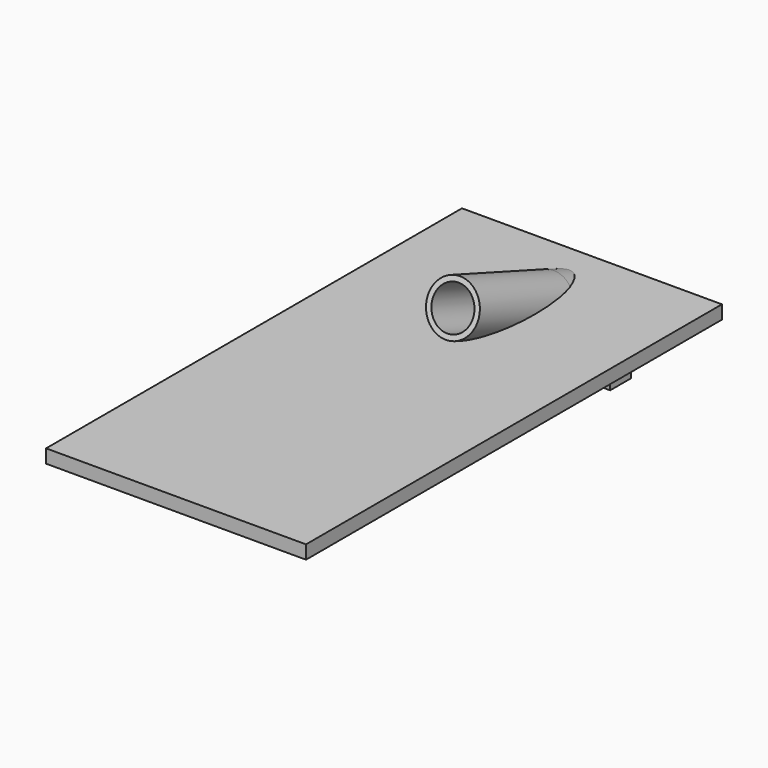
from build123d import *

# Parameters (mm, degrees)
TUBE_R                   = 5
TUBE_R_2                 = 4
TUBE_DEPTH               = 24
TUBE_PLACEMENT_ANGLE     = 70
BOX002_W                 = 13
BOX002_H                 = 4
BOX002_DEPTH             = 16
BOX001_W                 = 15
BOX001_H                 = 5
BOX001_DEPTH             = 18
CYLINDER_R               = 4
CYLINDER_DEPTH           = 35
CYLINDER_PLACEMENT_ANGLE = 70
BOX_W                    = 50
BOX_H                    = 100
BOX_DEPTH                = 2.6
EXTRUDE_DEPTH            = 10
EXTRUDE_PLACEMENT_ANGLE  = 70


with BuildPart() as tube:
    # Tube → Tube (new body)
    with BuildSketch(Plane.XY):
        Circle(TUBE_R)
        Circle(TUBE_R_2, mode=Mode.SUBTRACT)
    extrude(amount=TUBE_DEPTH)


with BuildPart() as tube_1:
    # Tube placement: moved
    add(tube.part.moved(Location((25.1, 89, -0.7))).rotate(Axis((25.1, 89, -0.7), (1, 0, 0)), TUBE_PLACEMENT_ANGLE))


with BuildPart() as cube002:
    # Box002 → Box002 (new body)
    with BuildSketch(Plane(origin=(18.5, 45, -6), x_dir=(1, 0, 0), z_dir=(0, 0, 1))):
        with Locations((6.5, 2)):
            Rectangle(BOX002_W, BOX002_H)
    extrude(amount=BOX002_DEPTH)


with BuildPart() as cut001:
    # Box001 → Box001 (new body)
    with BuildSketch(Plane(origin=(17.5, 45, -7.13), x_dir=(1, 0, 0), z_dir=(0, 0, 1))):
        with Locations((7.5, 2.5)):
            Rectangle(BOX001_W, BOX001_H)
    extrude(amount=BOX001_DEPTH)

    # Cut001: cut Cube002
    add(cube002.part, mode=Mode.SUBTRACT)


with BuildPart() as cut001_1:
    # Cut001 placement: moved
    add(cut001.part.moved(Location((0, 50, -8.5))))


with BuildPart() as cylinder:
    # Cylinder → Cylinder (new body)
    with BuildSketch(Plane.XY):
        Circle(CYLINDER_R)
    extrude(amount=CYLINDER_DEPTH)


with BuildPart() as cylinder_1:
    # Cylinder placement: moved
    add(cylinder.part.moved(Location((25.1, 98, -4))).rotate(Axis((25.1, 98, -4), (1, 0, 0)), CYLINDER_PLACEMENT_ANGLE))


with BuildPart() as cut:
    # Box → Box (new body)
    with BuildSketch(Plane.XY):
        with Locations((25, 50)):
            Rectangle(BOX_W, BOX_H)
    extrude(amount=BOX_DEPTH)

    # Cut: cut Cylinder
    add(cylinder_1.part, mode=Mode.SUBTRACT)


with BuildPart() as fusion:
    # Sketch → Extrude (new body)
    with BuildSketch(Plane.XY):
        with BuildLine():
            ThreePointArc((29.005047, 25.145956), (25.102383, 29.048619), (21.199722, 25.145954))
            Line((21.199722, 25.145954), (20.095131, 25.124403))
            ThreePointArc((30.109684, 25.145956), (25.091608, 30.153244), (20.095131, 25.124403))
            Line((29.005047, 25.145956), (30.109684, 25.145956))
        make_face()
    extrude(amount=EXTRUDE_DEPTH)


with BuildPart() as fusion_1:
    # Extrude placement: moved
    add(fusion.part.moved(Location((0, 89.5, -27.7))).rotate(Axis((0, 89.5, -27.7), (1, 0, 0)), EXTRUDE_PLACEMENT_ANGLE))

    # Fusion: union Tube, Cut001, Cut
    add(tube_1.part)
    add(cut001_1.part)
    add(cut.part)


solid = fusion_1.part
